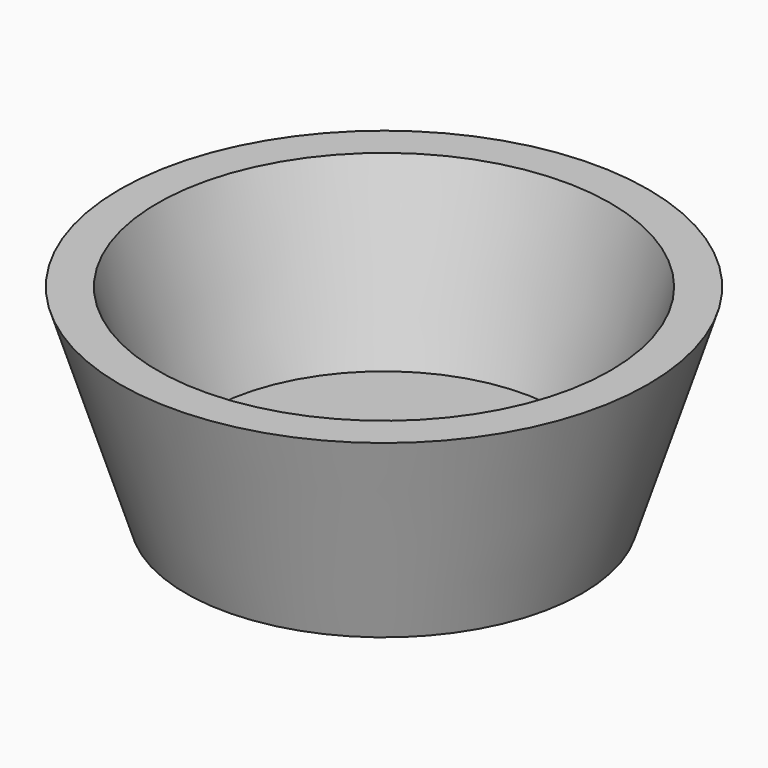
from build123d import *


with BuildPart() as f1:
    # F0 (on Front) → F1 (revolve)
    with BuildSketch(Plane.XZ):
        Polygon((0, 8.30179), (0, 0), (41.869897, 0), (55.826526, 43.434002), (47.885686, 43.434002), (37.297893, 8.30179), align=None)
    revolve(axis=Axis((0, 0, 4.150895), (0, 0, 1)))


with BuildPart() as f2:
    # F0 (on Front) → F2 (revolve)
    with BuildSketch(Plane.XZ):
        Polygon((0, 8.30179), (0, 0), (41.869897, 0), (55.826526, 43.434002), (47.885686, 43.434002), (37.297893, 8.30179), align=None)
    revolve(axis=Axis((0, 0, 4.150895), (0, 0, 1)))


solid = Compound([f1.part, f2.part])
